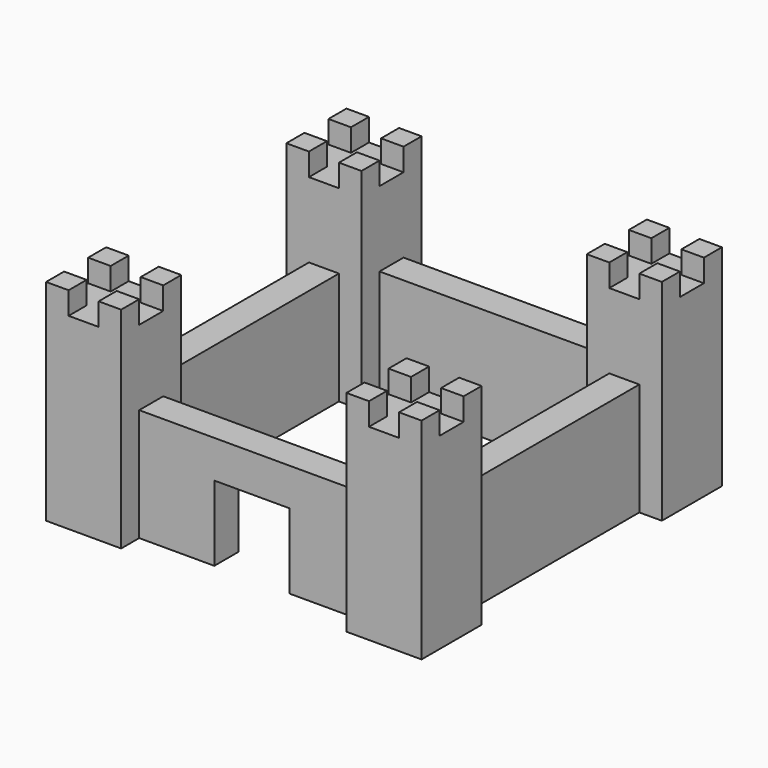
from build123d import *

# Parameters (mm, degrees)
BOX002_W     = 3
BOX002_H     = 3
BOX002_DEPTH = 3
BOX003_W     = 3
BOX003_H     = 3
BOX003_DEPTH = 3
BOX004_W     = 3
BOX004_H     = 3
BOX004_DEPTH = 3
BOX005_W     = 3
BOX005_H     = 3
BOX005_DEPTH = 3
BOX001_W     = 10
BOX001_H     = 10
BOX001_DEPTH = 25
BOX012_W     = 3
BOX012_H     = 3
BOX012_DEPTH = 3
BOX013_W     = 3
BOX013_H     = 3
BOX013_DEPTH = 3
BOX014_W     = 3
BOX014_H     = 3
BOX014_DEPTH = 3
BOX015_W     = 3
BOX015_H     = 3
BOX015_DEPTH = 3
BOX011_W     = 10
BOX011_H     = 10
BOX011_DEPTH = 25
BOX017_W     = 3
BOX017_H     = 3
BOX017_DEPTH = 3
BOX018_W     = 3
BOX018_H     = 3
BOX018_DEPTH = 3
BOX019_W     = 3
BOX019_H     = 3
BOX019_DEPTH = 3
BOX020_W     = 3
BOX020_H     = 3
BOX020_DEPTH = 3
BOX016_W     = 10
BOX016_H     = 10
BOX016_DEPTH = 25
BOX021_W     = 50
BOX021_H     = 4
BOX021_DEPTH = 15
BOX022_W     = 50
BOX022_H     = 4
BOX022_DEPTH = 15
BOX023_W     = 50
BOX023_H     = 4
BOX023_DEPTH = 15
BOX024_W     = 10
BOX024_H     = 10
BOX024_DEPTH = 10
BOX_W        = 50
BOX_H        = 4
BOX_DEPTH    = 15
BOX007_W     = 3
BOX007_H     = 3
BOX007_DEPTH = 3
BOX008_W     = 3
BOX008_H     = 3
BOX008_DEPTH = 3
BOX009_W     = 3
BOX009_H     = 3
BOX009_DEPTH = 3
BOX010_W     = 3
BOX010_H     = 3
BOX010_DEPTH = 3
BOX006_W     = 10
BOX006_H     = 10
BOX006_DEPTH = 25


with BuildPart() as cubo001:
    # Box002 → Box002 (new body)
    with BuildSketch(Plane.XY.offset(25)):
        with Locations((1.5, 1.5)):
            Rectangle(BOX002_W, BOX002_H)
    extrude(amount=BOX002_DEPTH)


with BuildPart() as cubo002:
    # Box003 → Box003 (new body)
    with BuildSketch(Plane(origin=(7, 0, 25), x_dir=(1, 0, 0), z_dir=(0, 0, 1))):
        with Locations((1.5, 1.5)):
            Rectangle(BOX003_W, BOX003_H)
    extrude(amount=BOX003_DEPTH)


with BuildPart() as cubo003:
    # Box004 → Box004 (new body)
    with BuildSketch(Plane(origin=(7, 7, 25), x_dir=(1, 0, 0), z_dir=(0, 0, 1))):
        with Locations((1.5, 1.5)):
            Rectangle(BOX004_W, BOX004_H)
    extrude(amount=BOX004_DEPTH)


with BuildPart() as cubo004:
    # Box005 → Box005 (new body)
    with BuildSketch(Plane(origin=(0, 7, 25), x_dir=(1, 0, 0), z_dir=(0, 0, 1))):
        with Locations((1.5, 1.5)):
            Rectangle(BOX005_W, BOX005_H)
    extrude(amount=BOX005_DEPTH)


with BuildPart() as fusion:
    # Box001 → Box001 (new body)
    with BuildSketch(Plane.XY):
        with Locations((5, 5)):
            Rectangle(BOX001_W, BOX001_H)
    extrude(amount=BOX001_DEPTH)

    # Fusion: union Cubo001, Cubo002, Cubo003, Cubo004
    add(cubo001.part)
    add(cubo002.part)
    add(cubo003.part)
    add(cubo004.part)


with BuildPart() as cubo011:
    # Box012 → Box012 (new body)
    with BuildSketch(Plane.XY.offset(25)):
        with Locations((1.5, 1.5)):
            Rectangle(BOX012_W, BOX012_H)
    extrude(amount=BOX012_DEPTH)


with BuildPart() as cubo012:
    # Box013 → Box013 (new body)
    with BuildSketch(Plane(origin=(7, 0, 25), x_dir=(1, 0, 0), z_dir=(0, 0, 1))):
        with Locations((1.5, 1.5)):
            Rectangle(BOX013_W, BOX013_H)
    extrude(amount=BOX013_DEPTH)


with BuildPart() as cubo013:
    # Box014 → Box014 (new body)
    with BuildSketch(Plane(origin=(7, 7, 25), x_dir=(1, 0, 0), z_dir=(0, 0, 1))):
        with Locations((1.5, 1.5)):
            Rectangle(BOX014_W, BOX014_H)
    extrude(amount=BOX014_DEPTH)


with BuildPart() as cubo014:
    # Box015 → Box015 (new body)
    with BuildSketch(Plane(origin=(0, 7, 25), x_dir=(1, 0, 0), z_dir=(0, 0, 1))):
        with Locations((1.5, 1.5)):
            Rectangle(BOX015_W, BOX015_H)
    extrude(amount=BOX015_DEPTH)


with BuildPart() as fusion002:
    # Box011 → Box011 (new body)
    with BuildSketch(Plane.XY):
        with Locations((5, 5)):
            Rectangle(BOX011_W, BOX011_H)
    extrude(amount=BOX011_DEPTH)

    # Fusion002: union Cubo011, Cubo012, Cubo013, Cubo014
    add(cubo011.part)
    add(cubo012.part)
    add(cubo013.part)
    add(cubo014.part)


with BuildPart() as fusion002_1:
    # Fusion002 placement: moved
    add(fusion002.part.moved(Location((40, 40, 0))))


with BuildPart() as cubo016:
    # Box017 → Box017 (new body)
    with BuildSketch(Plane.XY.offset(25)):
        with Locations((1.5, 1.5)):
            Rectangle(BOX017_W, BOX017_H)
    extrude(amount=BOX017_DEPTH)


with BuildPart() as cubo017:
    # Box018 → Box018 (new body)
    with BuildSketch(Plane(origin=(7, 0, 25), x_dir=(1, 0, 0), z_dir=(0, 0, 1))):
        with Locations((1.5, 1.5)):
            Rectangle(BOX018_W, BOX018_H)
    extrude(amount=BOX018_DEPTH)


with BuildPart() as cubo018:
    # Box019 → Box019 (new body)
    with BuildSketch(Plane(origin=(7, 7, 25), x_dir=(1, 0, 0), z_dir=(0, 0, 1))):
        with Locations((1.5, 1.5)):
            Rectangle(BOX019_W, BOX019_H)
    extrude(amount=BOX019_DEPTH)


with BuildPart() as cubo019:
    # Box020 → Box020 (new body)
    with BuildSketch(Plane(origin=(0, 7, 25), x_dir=(1, 0, 0), z_dir=(0, 0, 1))):
        with Locations((1.5, 1.5)):
            Rectangle(BOX020_W, BOX020_H)
    extrude(amount=BOX020_DEPTH)


with BuildPart() as fusion003:
    # Box016 → Box016 (new body)
    with BuildSketch(Plane.XY):
        with Locations((5, 5)):
            Rectangle(BOX016_W, BOX016_H)
    extrude(amount=BOX016_DEPTH)

    # Fusion003: union Cubo016, Cubo017, Cubo018, Cubo019
    add(cubo016.part)
    add(cubo017.part)
    add(cubo018.part)
    add(cubo019.part)


with BuildPart() as fusion003_1:
    # Fusion003 placement: moved
    add(fusion003.part.moved(Location((0, 40, 0))))


with BuildPart() as wall001:
    # Box021 → Box021 (new body)
    with BuildSketch(Plane(origin=(0, 43, 0), x_dir=(1, 0, 0), z_dir=(0, 0, 1))):
        with Locations((25, 2)):
            Rectangle(BOX021_W, BOX021_H)
    extrude(amount=BOX021_DEPTH)


with BuildPart() as wall002:
    # Box022 → Box022 (new body)
    with BuildSketch(Plane(origin=(7, 0, 0), x_dir=(0, 1, 0), z_dir=(0, 0, 1))):
        with Locations((25, 2)):
            Rectangle(BOX022_W, BOX022_H)
    extrude(amount=BOX022_DEPTH)


with BuildPart() as wall003:
    # Box023 → Box023 (new body)
    with BuildSketch(Plane(origin=(47, 0, 0), x_dir=(0, 1, 0), z_dir=(0, 0, 1))):
        with Locations((25, 2)):
            Rectangle(BOX023_W, BOX023_H)
    extrude(amount=BOX023_DEPTH)


with BuildPart() as cubo020:
    # Box024 → Box024 (new body)
    with BuildSketch(Plane(origin=(20, 0, 0), x_dir=(1, 0, 0), z_dir=(0, 0, 1))):
        with Locations((5, 5)):
            Rectangle(BOX024_W, BOX024_H)
    extrude(amount=BOX024_DEPTH)


with BuildPart() as cut:
    # Box → Box (new body)
    with BuildSketch(Plane(origin=(0, 3, 0), x_dir=(1, 0, 0), z_dir=(0, 0, 1))):
        with Locations((25, 2)):
            Rectangle(BOX_W, BOX_H)
    extrude(amount=BOX_DEPTH)

    # Cut: cut Cubo020
    add(cubo020.part, mode=Mode.SUBTRACT)


with BuildPart() as cubo006:
    # Box007 → Box007 (new body)
    with BuildSketch(Plane.XY.offset(25)):
        with Locations((1.5, 1.5)):
            Rectangle(BOX007_W, BOX007_H)
    extrude(amount=BOX007_DEPTH)


with BuildPart() as cubo007:
    # Box008 → Box008 (new body)
    with BuildSketch(Plane(origin=(7, 0, 25), x_dir=(1, 0, 0), z_dir=(0, 0, 1))):
        with Locations((1.5, 1.5)):
            Rectangle(BOX008_W, BOX008_H)
    extrude(amount=BOX008_DEPTH)


with BuildPart() as cubo008:
    # Box009 → Box009 (new body)
    with BuildSketch(Plane(origin=(7, 7, 25), x_dir=(1, 0, 0), z_dir=(0, 0, 1))):
        with Locations((1.5, 1.5)):
            Rectangle(BOX009_W, BOX009_H)
    extrude(amount=BOX009_DEPTH)


with BuildPart() as cubo009:
    # Box010 → Box010 (new body)
    with BuildSketch(Plane(origin=(0, 7, 25), x_dir=(1, 0, 0), z_dir=(0, 0, 1))):
        with Locations((1.5, 1.5)):
            Rectangle(BOX010_W, BOX010_H)
    extrude(amount=BOX010_DEPTH)


with BuildPart() as fusion004:
    # Box006 → Box006 (new body)
    with BuildSketch(Plane.XY):
        with Locations((5, 5)):
            Rectangle(BOX006_W, BOX006_H)
    extrude(amount=BOX006_DEPTH)

    # Fusion001: union Cubo006, Cubo007, Cubo008, Cubo009
    add(cubo006.part)
    add(cubo007.part)
    add(cubo008.part)
    add(cubo009.part)


with BuildPart() as fusion004_1:
    # Fusion001 placement: moved
    add(fusion004.part.moved(Location((40, 0, 0))))

    # Fusion004: union Fusion, Fusion002, Fusion003, wall001, wall002, wall003, Cut
    add(fusion.part)
    add(fusion002_1.part)
    add(fusion003_1.part)
    add(wall001.part)
    add(wall002.part)
    add(wall003.part)
    add(cut.part)


solid = fusion004_1.part
